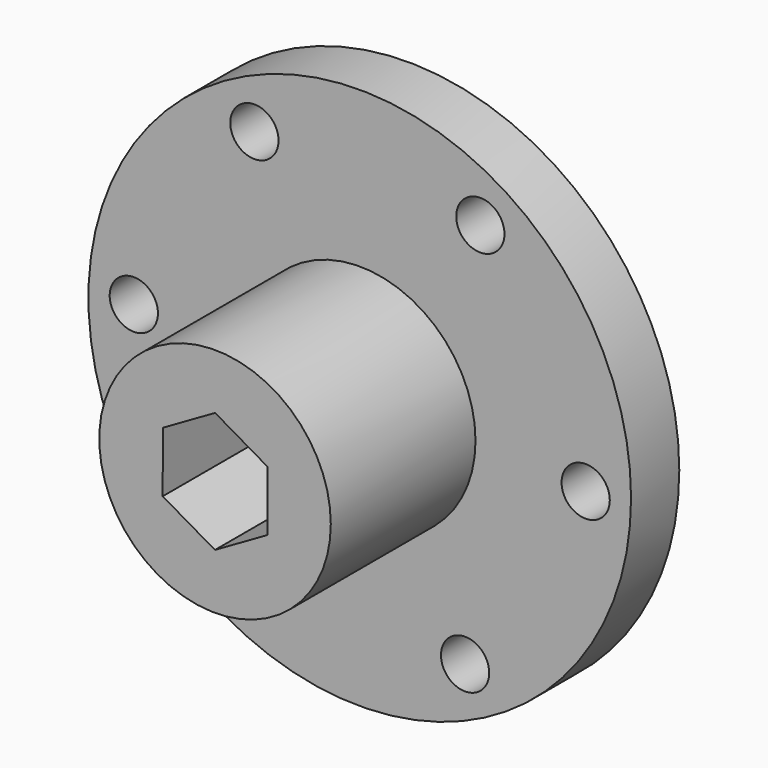
from build123d import *

# Parameters (mm, degrees)
F0_R     = 28.575
F0_R_2   = 2.54
F0_R_3   = 12.192
F1_DEPTH = 6.35
F2_DEPTH = 25.4


with BuildPart() as f1:
    # F0 (on Front) → F1 (new body)
    with BuildSketch(Plane.XZ):
        Circle(F0_R)
        with Locations((-12.7, -20.143117)):
            Circle(F0_R_2, mode=Mode.SUBTRACT)
        with Locations((11.094451, -21.070081)):
            Circle(F0_R_2, mode=Mode.SUBTRACT)
        with Locations((23.794451, -0.926964)):
            Circle(F0_R_2, mode=Mode.SUBTRACT)
        with Locations((-23.794451, 0.926964)):
            Circle(F0_R_2, mode=Mode.SUBTRACT)
        with Locations((-11.094451, 21.070081)):
            Circle(F0_R_2, mode=Mode.SUBTRACT)
        Circle(F0_R_3, mode=Mode.SUBTRACT)
        with Locations((12.7, 20.143117)):
            Circle(F0_R_2, mode=Mode.SUBTRACT)
    extrude(amount=F1_DEPTH)

    # F0 (on Front) → F2 (join)
    with BuildSketch(Plane.XZ):
        Circle(F0_R_3)
        Polygon((-5.500707, 3.186898), (0.009581, 6.357201), (5.510288, 3.170303), (5.500707, -3.186898), (-0.009581, -6.357201), (-5.510288, -3.170303), align=None, mode=Mode.SUBTRACT)
    extrude(amount=F2_DEPTH)


solid = f1.part
